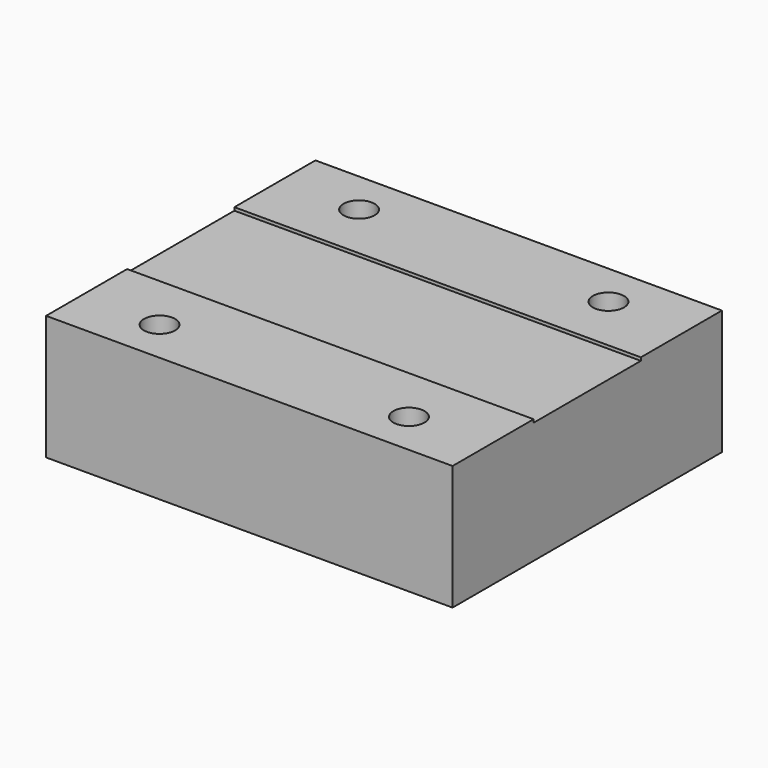
from build123d import *

# Parameters (mm, degrees)
F0_W     = 32.6
F0_H     = 27
F1_DEPTH = 10
F2_W     = 32.6
F2_H     = 10.75
F3_DEPTH = 0.25
F5_D     = 2.5
F5_DEPTH = 14.2
F5_TIP   = 0.7510757738


with BuildPart() as f1:
    # F0 (on Top) → F1 (new body)
    with BuildSketch(Plane.XY):
        with Locations((16.3, 13.5)):
            Rectangle(F0_W, F0_H)
    extrude(amount=F1_DEPTH)

    # F2 (on face) → F3 (cut)
    with BuildSketch(Plane.XY.offset(10)):
        with Locations((16.3, 13.5)):
            Rectangle(F2_W, F2_H)
    extrude(amount=-F3_DEPTH, mode=Mode.SUBTRACT)

    # F5
    with Locations(Plane.XY.offset(10)):
        with Locations((6.3, 23.5), (26.3, 23.5), (26.3, 3.5), (6.3, 3.5)):
            Hole(F5_D / 2, depth=F5_DEPTH)
            with Locations((0, 0, -(F5_DEPTH + F5_TIP / 2))):  # 118° drill point
                Cone(0, F5_D / 2, F5_TIP, mode=Mode.SUBTRACT)


solid = f1.part
